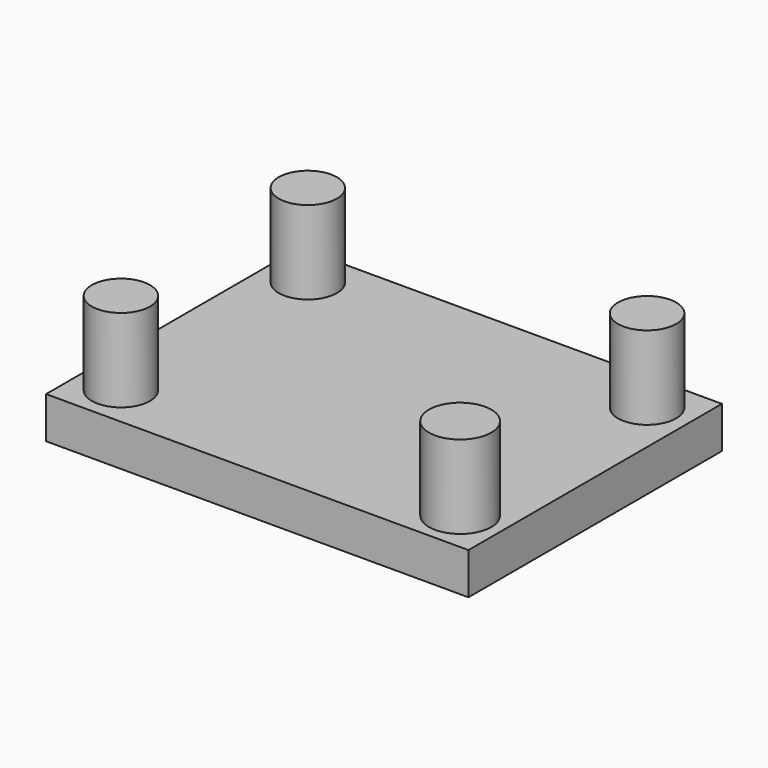
from build123d import *

# Parameters (mm, degrees)
F0_W     = 50.8
F0_H     = 38.1
F1_DEPTH = 5
F2_R     = 3.5
F2_R_2   = 3.75
F3_DEPTH = 10


with BuildPart() as f1:
    # F0 (on Top) → F1 (new body)
    with BuildSketch(Plane.XY):
        with Locations((-7.523146, -8.134835)):
            Rectangle(F0_W, F0_H)
    extrude(amount=F1_DEPTH)

    # F2 (on face) → F3 (join)
    with BuildSketch(Plane.XY.offset(5)):
        with Locations((-27.923146, -22.184835)):
            Circle(F2_R)
        with Locations((12.876854, 5.915165)):
            Circle(F2_R)
        with Locations((12.876854, -22.184835)):
            Circle(F2_R_2)
        with Locations((-27.923146, 5.915165)):
            Circle(F2_R)
    extrude(amount=F3_DEPTH)


solid = f1.part
